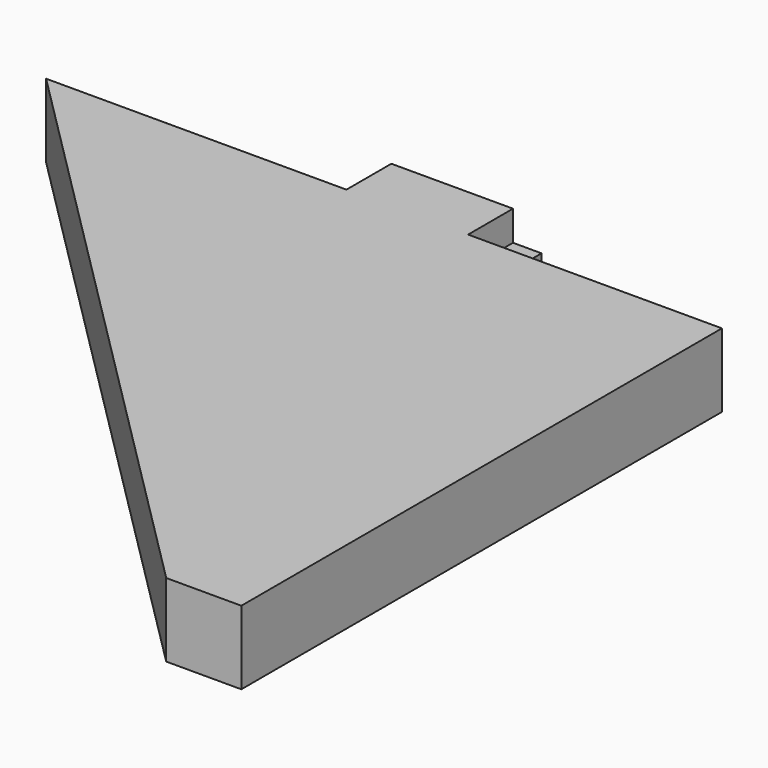
from build123d import *

# Parameters (mm, degrees)
F0_W     = 10.287
F0_H     = 4.745708
F0_W_2   = 6.35
F0_H_2   = 50.8
F1_DEPTH = 6.223
F0_W_3   = 12.7
F0_H_3   = 2.413
F2_DEPTH = 3.683


with BuildPart() as f1:
    # F0 (on Top) → F1 (new body)
    with BuildSketch(Plane.XY):
        Polygon((-25.4, 25.4), (25.4, -25.4), (25.4, 25.4), (12.7, 25.4), (10.287, 25.4), (0, 25.4), align=None)
        with Locations((5.1435, 27.772854)):
            Rectangle(F0_W, F0_H)
        with Locations((28.575, 0)):
            Rectangle(F0_W_2, F0_H_2)
    extrude(amount=F1_DEPTH)

    # F0 (on Top) → F2 (join)
    with BuildSketch(Plane.XY):
        Polygon((10.287, 25.4), (12.7, 25.4), (12.7, 27.813), (12.7, 30.145708), (10.287, 30.145708), align=None)
        with Locations((19.05, 26.6065)):
            Rectangle(F0_W_3, F0_H_3)
    extrude(amount=F2_DEPTH)


solid = f1.part
